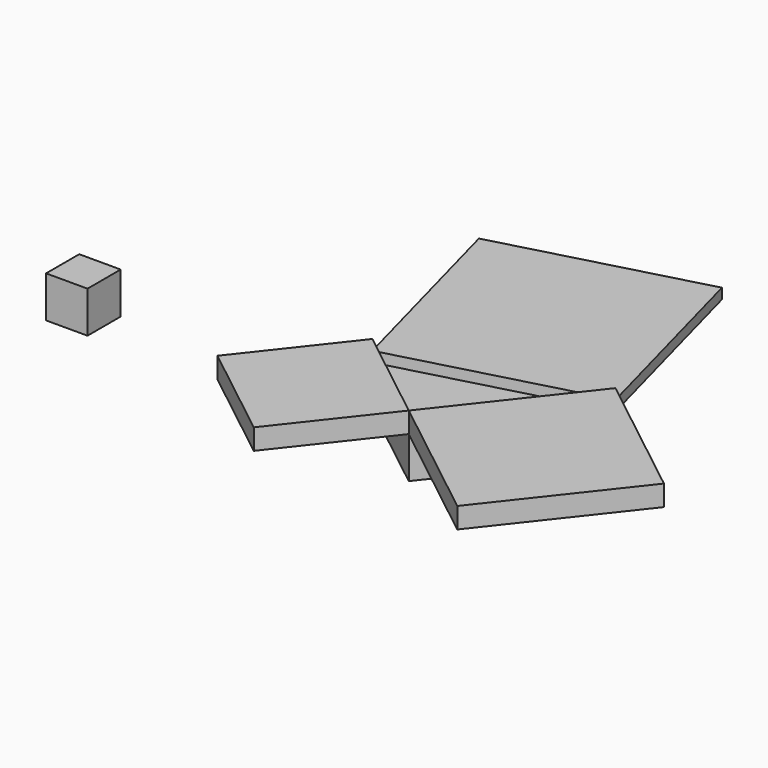
from build123d import *

# Parameters (mm, degrees)
F1_DEPTH = 25.4
F4_DEPTH = 12.7
F6_DEPTH = 6.35
F7_W     = 25.4
F7_H     = 25.4
F8_DEPTH = 25.4


with BuildPart() as f1:
    # F0 (on Top) → F1 (new body)
    with BuildSketch(Plane.XY):
        Polygon((15.945647, -47.049632), (78.678489, 32.870019), (-43.994091, 0), align=None)
    extrude(amount=F1_DEPTH)


with BuildPart() as f4:
    # F2 (on face) + F3 (on face) → F4 (new body)
    with BuildSketch(Plane.XY.offset(25.4)):
        Polygon((15.945647, -47.049632), (-43.994091, 0), (-91.043722, -59.939738), (-31.103984, -106.989369), align=None)
    with BuildSketch(Plane.XY.offset(25.4)):
        Polygon((158.59814, -29.862823), (78.678489, 32.870019), (15.945647, -47.049632), (95.865298, -109.782474), align=None)
    extrude(amount=F4_DEPTH)


with BuildPart() as f6:
    # F5 (on face) → F6 (new body)
    with BuildSketch(Plane.XY.offset(25.4)):
        Polygon((-76.864109, 122.67258), (-43.994091, 0), (78.678489, 32.870019), (45.808471, 155.542599), align=None)
    extrude(amount=F6_DEPTH)


with BuildPart() as f8:
    # F7 (on Top) → F8 (new body)
    with BuildSketch(Plane.XY):
        with Locations((-210.964285, -12.7)):
            Rectangle(F7_W, F7_H)
    extrude(amount=F8_DEPTH)


solid = Compound([f1.part, f4.part, f6.part, f8.part])
